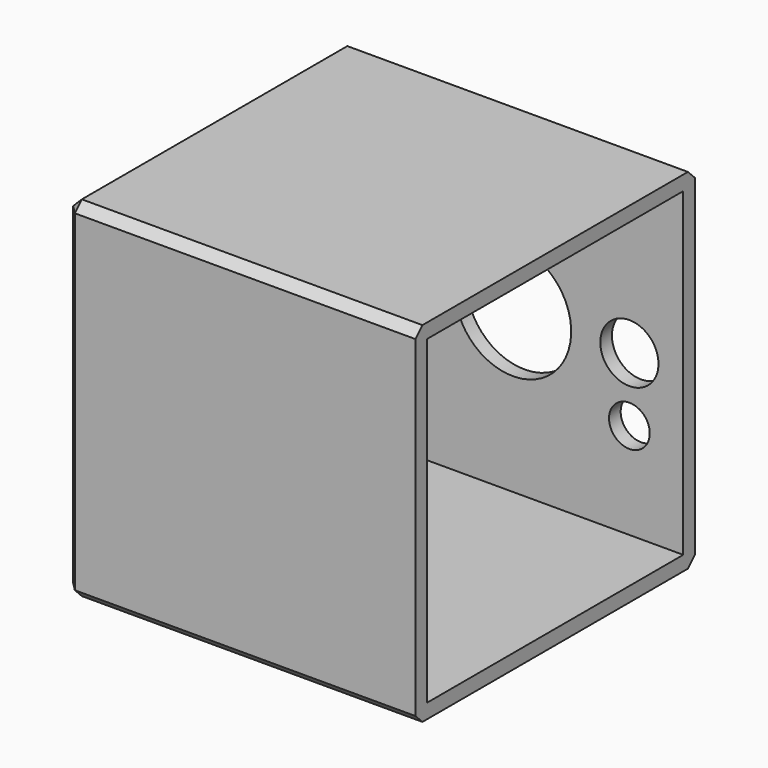
from build123d import *

# Parameters (mm, degrees)
F1_DEPTH = 60
F2_R     = 11.5
F3_DEPTH = 2.5
F5_T     = -2.5
F4_R     = 1
F6_DEPTH = 25
F7_SIZE  = 1.5
F8_R     = 3.5
F8_R_2   = 5
F8_R_3   = 10
F9_DEPTH = 3


with BuildPart() as f1:
    # F0 (on Right) → F1 (new body)
    with BuildSketch(Plane.YZ):
        Polygon((30, 63), (-30, 63), (-30, 3), (0, 3), (30, 3), align=None)
    extrude(amount=F1_DEPTH)

    # F2 (on face) → F3 (cut)
    with BuildSketch(Plane(origin=(0, 0, 0), x_dir=(0, -1, 0), z_dir=(-1, 0, 0))):
        with Locations((0, 40)):
            Circle(F2_R)
    extrude(amount=-F3_DEPTH, mode=Mode.SUBTRACT)

    # F5
    f5_openings = [f1.faces().sort_by_distance(p)[0] for p in [
        (60, 0, 33),
    ]]
    offset(amount=F5_T, openings=f5_openings, kind=Kind.INTERSECTION)

    # F4 (on face) → F6 (cut)
    with BuildSketch(Plane(origin=(0, 0, 0), x_dir=(0, -1, 0), z_dir=(-1, 0, 0))):
        with Locations((0, 49.5)):
            Circle(F4_R)
        with Locations((-8.227241336, 44.75)):
            Circle(F4_R)
        with Locations((-8.227241336, 35.25)):
            Circle(F4_R)
        with Locations((0, 30.5)):
            Circle(F4_R)
        with Locations((8.227241336, 35.25)):
            Circle(F4_R)
        with Locations((8.227241336, 44.75)):
            Circle(F4_R)
    extrude(amount=-F6_DEPTH, mode=Mode.SUBTRACT)

    # F7
    f7_edges = [f1.edges().sort_by_distance(p)[0] for p in [
        (30, -30, 63),
        (30, 30, 63),
        (30, 30, 3),
        (30, -30, 3),
        (0, -30, 33),
        (0, 0, 63),
        (0, 30, 33),
        (0, 0, 3),
    ]]
    chamfer(f7_edges, length=F7_SIZE)

    # F8 (on face) → F9 (cut)
    with BuildSketch(Plane(origin=(0, 30, 0), x_dir=(-1, 0, 0), z_dir=(0, 1, 0))):
        with Locations((-50.75, 22)):
            Circle(F8_R)
        with Locations((-50.75, 33)):
            Circle(F8_R_2)
        with Locations((-30.75, 33)):
            Circle(F8_R_3)
    extrude(amount=-F9_DEPTH, mode=Mode.SUBTRACT)


solid = f1.part
